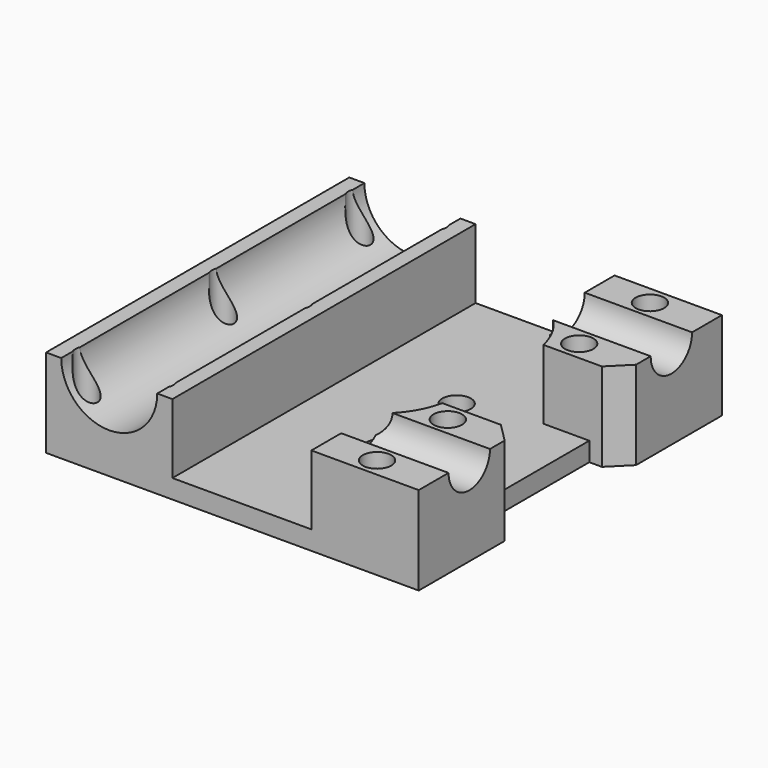
from build123d import *

# Parameters (mm, degrees)
SKETCH_W        = 59
SKETCH_H        = 60
PAD_DEPTH       = 14
SKETCH001_R     = 7.6
POCKET_DEPTH    = 60.001
SKETCH002_R     = 1.75
POCKET001_DEPTH = 14.001
POCKET002_DEPTH = 11
SKETCH004_R     = 2.25
POCKET003_DEPTH = 14.001
SKETCH008_R     = 4.1
POCKET005_DEPTH = 20
SKETCH010_W     = 20
SKETCH010_H     = 25
POCKET006_DEPTH = 5
SKETCH011_R     = 2.25
POCKET007_DEPTH = 10
CHAMFER_SIZE    = 3
POCKET008_DEPTH = 4


with BuildPart() as part:
    # Sketch → Pad (new body)
    with BuildSketch(Plane.XY):
        with Locations((19.5, 0)):
            Rectangle(SKETCH_W, SKETCH_H)
    extrude(amount=PAD_DEPTH)

    # Sketch001 → Pocket (cut, through all)
    with BuildSketch(Plane.XZ.offset(30)):
        with Locations((0, 14)):
            Circle(SKETCH001_R)
    extrude(amount=-POCKET_DEPTH, mode=Mode.SUBTRACT)

    # Sketch002 → Pocket001 (cut, through all)
    with BuildSketch(Plane.XY.offset(14)):
        with Locations((-6, 27)):
            Circle(SKETCH002_R)
        with Locations((-6, -27)):
            Circle(SKETCH002_R)
        with Locations((6, 27)):
            Circle(SKETCH002_R)
        with Locations((6, -27)):
            Circle(SKETCH002_R)
        with Locations((6, 0)):
            Circle(SKETCH002_R)
        with Locations((-6, 0)):
            Circle(SKETCH002_R)
    extrude(amount=-POCKET001_DEPTH, mode=Mode.SUBTRACT)

    # Sketch003 → Pocket002 (cut)
    with BuildSketch(Plane.XY.offset(14)):
        with BuildLine():
            Line((10, 35), (10, -35))
            Line((10, -35), (32, -35))
            Line((32, -35), (32, -17.246794))
            ThreePointArc((32, -17.246794), (35.044647, -14.065445), (36.736695, -10))
            Line((36.736695, -10), (56.736695, -10))
            Line((56.736695, -10), (56.736695, 10))
            Line((56.736695, 10), (36.736695, 10))
            ThreePointArc((36.736695, 10), (35.044647, 14.065445), (32, 17.246794))
            Line((32, 17.246794), (32, 35))
            Line((32, 35), (10, 35))
        make_face()
    extrude(amount=-POCKET002_DEPTH, mode=Mode.SUBTRACT)

    # Sketch004 → Pocket003 (cut, through all)
    with BuildSketch(Plane(origin=(0, 0, 0), x_dir=(1, 0, 0), z_dir=(0, 0, -1))):
        with Locations((25, 7.5)):
            Circle(SKETCH004_R)
        with Locations((25, -7.5)):
            Circle(SKETCH004_R)
    extrude(amount=-POCKET003_DEPTH, mode=Mode.SUBTRACT)

    # Sketch008 → Pocket005 (cut)
    with BuildSketch(Plane.YZ.offset(49)):
        with Locations((-20, 14)):
            Circle(SKETCH008_R)
        with Locations((20, 14)):
            Circle(SKETCH008_R)
    extrude(amount=-POCKET005_DEPTH, mode=Mode.SUBTRACT)

    # Sketch010 → Pocket006 (cut)
    with BuildSketch(Plane.YZ.offset(49)):
        with Locations((0, 6.5)):
            Rectangle(SKETCH010_W, SKETCH010_H)
    extrude(amount=-POCKET006_DEPTH, mode=Mode.SUBTRACT)

    # Sketch011 → Pocket007 (cut)
    with BuildSketch(Plane.XY.offset(14)):
        with Locations((40, 27)):
            Circle(SKETCH011_R)
        with Locations((40, 13)):
            Circle(SKETCH011_R)
        with Locations((40, -13)):
            Circle(SKETCH011_R)
        with Locations((40, -27)):
            Circle(SKETCH011_R)
    extrude(amount=-POCKET007_DEPTH, mode=Mode.SUBTRACT)

    # Chamfer
    chamfer_edges = [part.edges().sort_by_distance(p)[0] for p in [
        (49, -10, 8.5),
        (49, 10, 8.5),
    ]]
    chamfer(chamfer_edges, length=CHAMFER_SIZE)

    # Sketch012 → Pocket008 (cut)
    with BuildSketch(Plane(origin=(0, 0, 0), x_dir=(1, 0, 0), z_dir=(0, 0, -1))):
        Polygon((-4.412285, 29.750003), (-7.587715, 29.750003), (-9.17543, 27), (-7.587715, 24.249997), (-4.412285, 24.249997), (-2.82457, 27), align=None)
        Polygon((7.587715, 29.750003), (4.412285, 29.750003), (2.82457, 27), (4.412285, 24.249997), (7.587715, 24.249997), (9.17543, 27), align=None)
        Polygon((-4.412285, 2.750003), (-7.587715, 2.750003), (-9.17543, 0), (-7.587715, -2.750003), (-4.412285, -2.750003), (-2.82457, 0), align=None)
        Polygon((7.587715, 2.750003), (4.412285, 2.750003), (2.82457, 0), (4.412285, -2.750003), (7.587715, -2.750003), (9.17543, 0), align=None)
        Polygon((-4.412285, -24.249997), (-7.587715, -24.249997), (-9.17543, -27), (-7.587715, -29.750003), (-4.412285, -29.750003), (-2.82457, -27), align=None)
        Polygon((7.587715, -24.249997), (4.412285, -24.249997), (2.82457, -27), (4.412285, -29.750003), (7.587715, -29.750003), (9.17543, -27), align=None)
    extrude(amount=-POCKET008_DEPTH, mode=Mode.SUBTRACT)


solid = part.part
